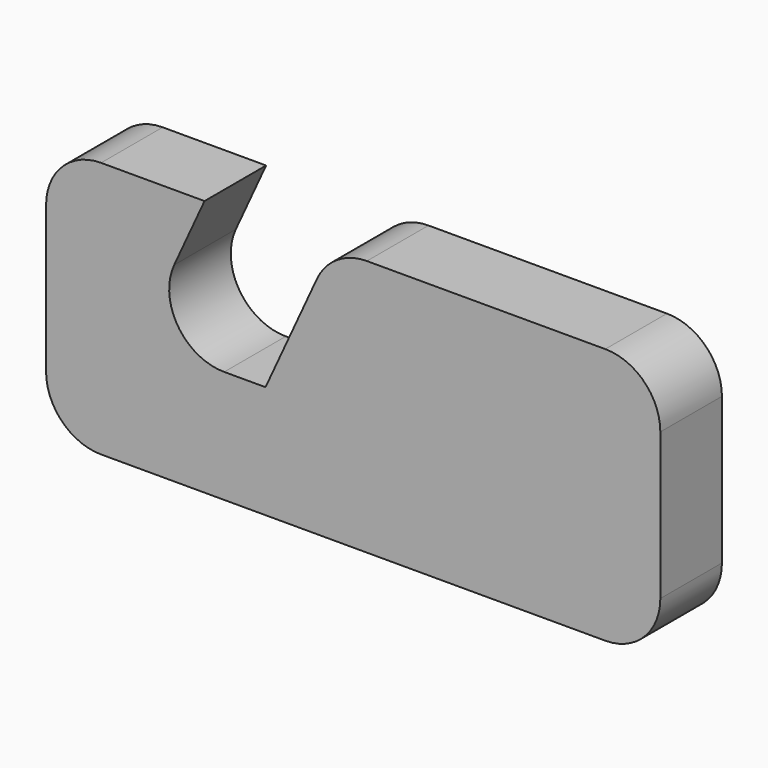
from build123d import *

# Parameters (mm, degrees)
F1_DEPTH = 7
F2_R     = 5


with BuildPart() as f1:
    # F0 (on Front) → F1 (new body)
    with BuildSketch(Plane.XZ):
        Polygon((0, 23.336001), (0, 0), (55.836968, 0), (55.836968, 23.336001), (25.954563, 23.336001), (19.947276, 10.243195), (8.394799, 10.243195), (14.402086, 23.336001), align=None)
    extrude(amount=F1_DEPTH)

    # F2
    f2_edges = [f1.edges().sort_by_distance(p)[0] for p in [
        (55.836968, -3.5, 23.336001),
        (55.836968, -3.5, 0),
        (25.954563, -3.5, 23.336001),
        (0, -3.5, 0),
        (8.394799, -3.5, 10.243195),
        (0, -3.5, 23.336001),
    ]]
    fillet(f2_edges, radius=F2_R)


solid = f1.part
